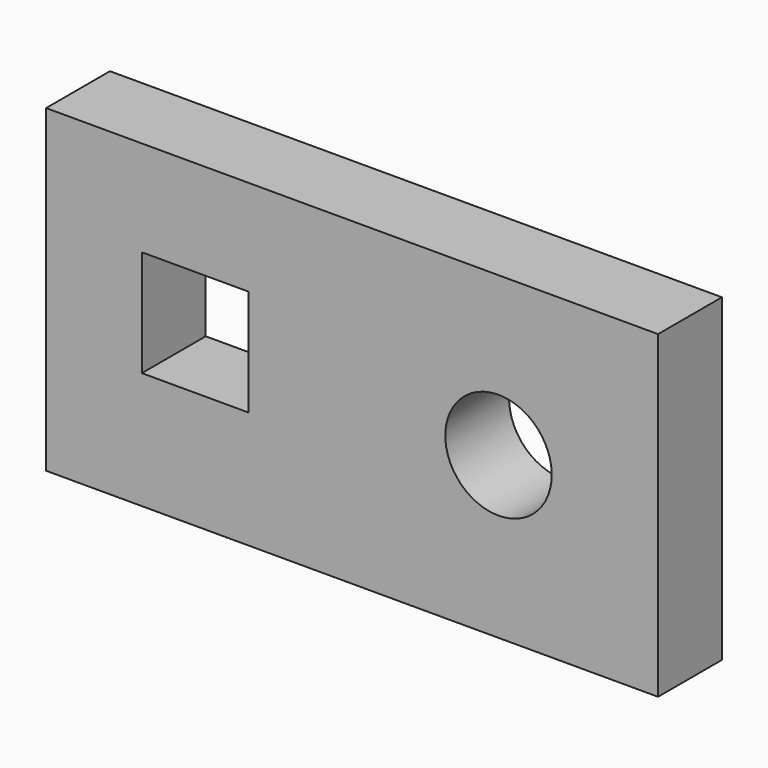
from build123d import *

# Parameters (mm, degrees)
F0_W     = 73.025
F0_H     = 76.2
F2_DEPTH = 19.05
F1_W     = 73.025
F1_H     = 76.2
F1_W_2   = 25.4
F1_H_2   = 25.4
F3_DEPTH = 19.05
F4_R     = 12.7
F5_DEPTH = 265.176


with BuildPart() as f2:
    # F0 (on Front) → F2 (new body)
    with BuildSketch(Plane.XZ):
        with Locations((36.5125, 38.1)):
            Rectangle(F0_W, F0_H)
    extrude(amount=F2_DEPTH)

    # F1 (on face) → F3 (join)
    with BuildSketch(Plane.XZ):
        with Locations((-36.5125, 38.1)):
            Rectangle(F1_W, F1_H)
        with Locations((-37.465, 40.64)):
            Rectangle(F1_W_2, F1_H_2, mode=Mode.SUBTRACT)
    extrude(amount=F3_DEPTH)

    # F4 (on face) → F5 (cut)
    with BuildSketch(Plane.XZ.offset(19.05)):
        with Locations((34.944702, 38.381886)):
            Circle(F4_R)
    extrude(amount=-F5_DEPTH, mode=Mode.SUBTRACT)


solid = f2.part
